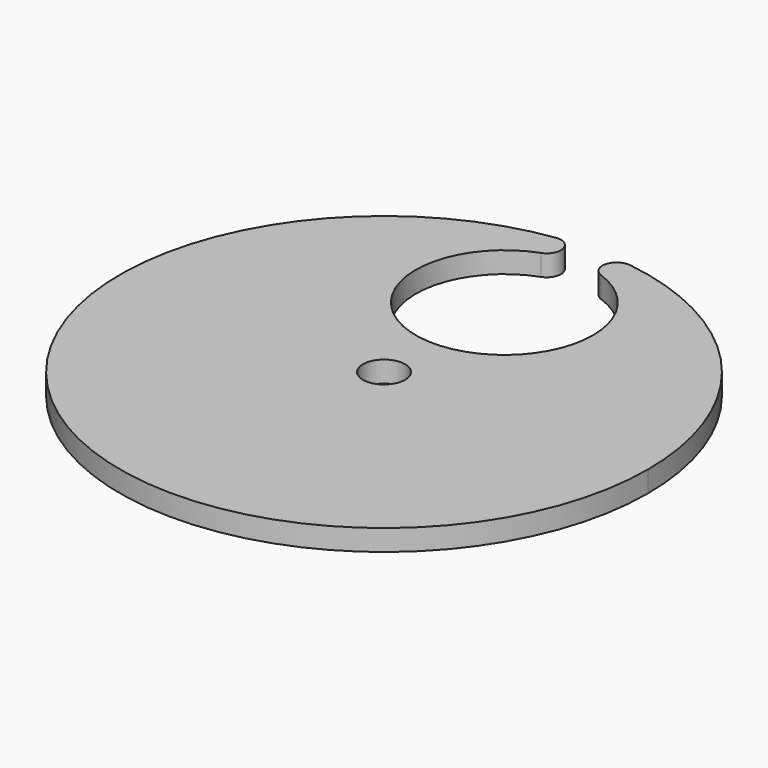
from build123d import *

# Parameters (mm, degrees)
F0_R     = 3
F1_DEPTH = 3


with BuildPart() as f1:
    # F0 (on Top) → F1 (new body)
    with BuildSketch(Plane.XY):
        with BuildLine():
            ThreePointArc((32.235098, 74.628571), (12.915287, 9.183187), (75, 37.5))
            ThreePointArc((75, 37.5), (65.816813, 62.084713), (42.764902, 74.628571))
            ThreePointArc((42.764902, 74.628571), (40.513824, 73.11211), (41.789806, 70.716514))
            ThreePointArc((41.789806, 70.716514), (47.808281, 66.108235), (50.090155, 58.879726))
            ThreePointArc((50.090155, 58.879726), (30.271491, 48.571444), (33.210194, 70.716514))
            ThreePointArc((33.210194, 70.716514), (34.486176, 73.11211), (32.235098, 74.628571))
        make_face()
        with Locations((37.5, 37.5)):
            Circle(F0_R, mode=Mode.SUBTRACT)
    extrude(amount=F1_DEPTH)


solid = f1.part
